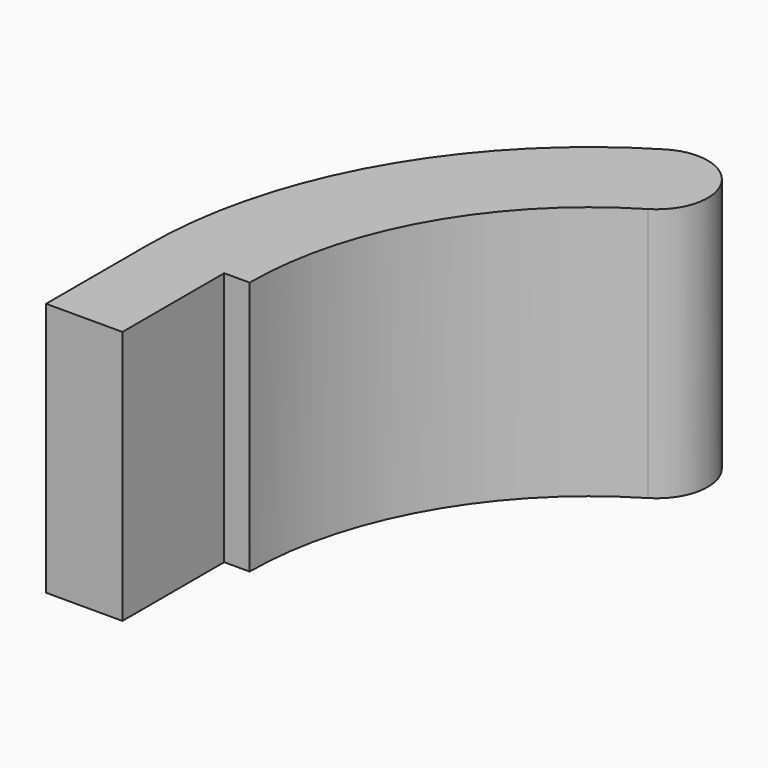
from build123d import *

# Parameters (mm, degrees)
EXTRUDE_DEPTH = 10


with BuildPart() as part:
    # Sketch → Extrude (new body)
    with BuildSketch(Plane.XY):
        with BuildLine():
            Line((-3.696471, -10.672124), (-0.696471, -10.672124))
            Line((-0.696471, -10.672124), (-0.696471, -5.672124))
            Line((-0.696471, -5.672124), (0.303529, -5.672124))
            ThreePointArc((6.795663, 5.782347), (2.039411, 0.91105), (0.303529, -5.672124))
            ThreePointArc((6.795663, 5.782347), (7.484095, 8.525714), (4.740728, 9.214146))
            ThreePointArc((4.740728, 9.214146), (-1.440512, 2.883392), (-3.696471, -5.672124))
            Line((-3.696471, -5.672124), (-3.696471, -10.672124))
        make_face()
    extrude(amount=EXTRUDE_DEPTH)


solid = part.part
